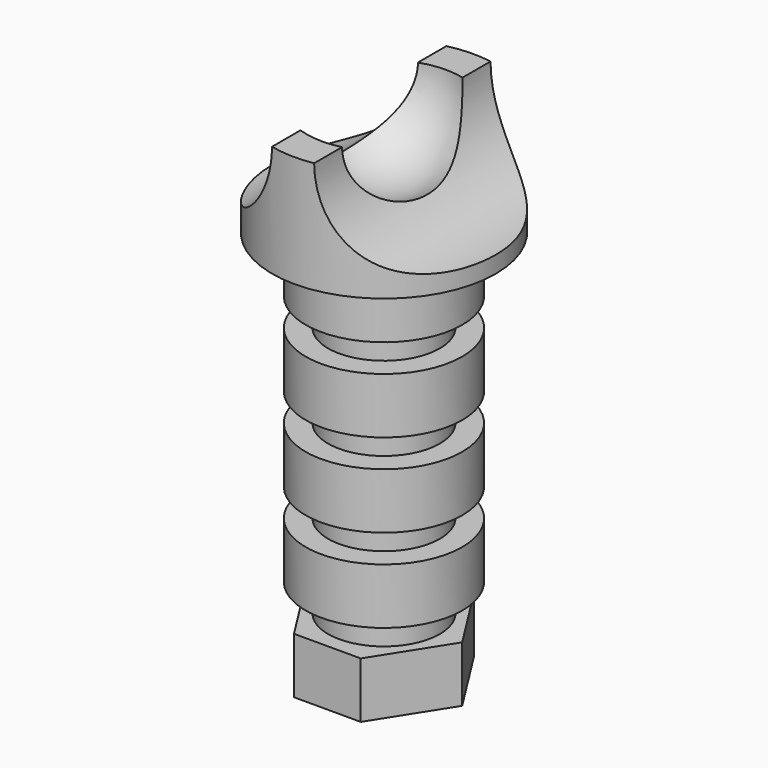
from build123d import *

# Parameters (mm, degrees)
F0_R           = 10
F1_DEPTH       = 80
F3_DEPTH       = 10
F6_R           = 14
F7_DEPTH       = 10
F9_R           = 14
F10_DEPTH      = 10
F12_R          = 14
F13_DEPTH      = 10
F15_R          = 14
F16_DEPTH      = 10
F17_R          = 20
F18_DEPTH      = 20
F22_DEPTH      = 25
F22_DEPTH_BACK = 25
F23_R          = 16
F24_DEPTH      = 25
F24_DEPTH_BACK = 25


with BuildPart() as f1:
    # F0 (on Top) → F1 (new body)
    with BuildSketch(Plane.XY):
        Circle(F0_R)
    extrude(amount=F1_DEPTH)

    # F2 (on Top) → F3 (join)
    with BuildSketch(Plane.XY):
        Polygon((14, 0), (5.9740389772, 12.6613924313), (-0.0259610228, 12.6613924313), (-5.9740389772, 12.6613924313), (-14, 0), (-5.9740389772, -12.6613924313), (0.0259610228, -12.6613924313), (5.9740389772, -12.6613924313), align=None)
    extrude(amount=F3_DEPTH)

    # F6 (on offset) → F7 (join)
    with BuildSketch(Plane.XY.offset(15)):
        Circle(F6_R)
    extrude(amount=F7_DEPTH)

    # F9 (on offset) → F10 (join)
    with BuildSketch(Plane.XY.offset(30)):
        Circle(F9_R)
    extrude(amount=F10_DEPTH)

    # F12 (on offset) → F13 (join)
    with BuildSketch(Plane.XY.offset(45)):
        Circle(F12_R)
    extrude(amount=F13_DEPTH)

    # F15 (on offset) → F16 (join)
    with BuildSketch(Plane.XY.offset(60)):
        Circle(F15_R)
    extrude(amount=F16_DEPTH)

    # F17 (on face) → F18 (join)
    with BuildSketch(Plane.XY.offset(70)):
        Circle(F17_R)
    extrude(amount=F18_DEPTH)

    # F19 (on face) → F20 (revolve, cut)
    with BuildSketch(Plane.XY.offset(90)):
        with BuildLine():
            Line((0, -13.8652793043), (0, 13.8652793043))
            ThreePointArc((0, 13.8652793043), (-13.8652793043, 0), (0, -13.8652793043))
        make_face()
    revolve(axis=Axis((0, 0, 90), (0, -1, 0)), mode=Mode.SUBTRACT)

    # F21 (on Front) → F22 (cut, two sides)
    with BuildSketch(Plane.XZ) as f22_sk:
        with BuildLine():
            Line((20.291691646, 89.9962559342), (20.291691646, 107.0001030122))
            ThreePointArc((20.291691646, 107.0001030122), (3.287844568, 89.9962559342), (20.291691646, 72.9924088562))
            Line((20.291691646, 72.9924088562), (20.291691646, 89.9962559342))
        make_face()
        with BuildLine():
            Line((20.291691646, 89.9962559342), (20.291691646, 107.0001030122))
            ThreePointArc((20.291691646, 107.0001030122), (3.287844568, 89.9962559342), (20.291691646, 72.9924088562))
            Line((20.291691646, 72.9924088562), (20.291691646, 89.9962559342))
        make_face()
    extrude(amount=F22_DEPTH, mode=Mode.SUBTRACT)
    extrude(f22_sk.sketch, amount=-F22_DEPTH_BACK, mode=Mode.SUBTRACT)

    # F23 (on Front) → F24 (cut, two sides)
    with BuildSketch(Plane.XZ) as f24_sk:
        with Locations((-20.4308144748, 90.1330336928)):
            Circle(F23_R)
    extrude(amount=-F24_DEPTH, mode=Mode.SUBTRACT)
    extrude(f24_sk.sketch, amount=F24_DEPTH_BACK, mode=Mode.SUBTRACT)


solid = f1.part
